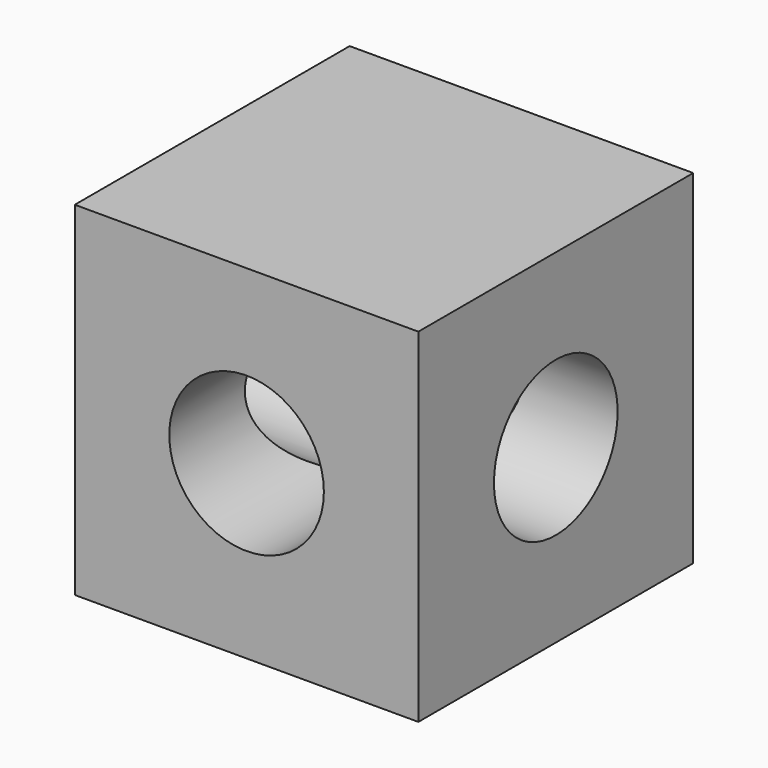
from build123d import *

# Parameters (mm, degrees)
SKETCH_W            = 20
SKETCH_H            = 20
PAD_DEPTH           = 10
HOLE_D              = 5
HOLE_DEPTH          = 25
HOLE_CBORE_D        = 9
HOLE_CBORE_DEPTH    = 20
HOLE001_D           = 5
HOLE001_DEPTH       = 25
HOLE001_CBORE_D     = 9
HOLE001_CBORE_DEPTH = 20


with BuildPart() as part:
    # Sketch → Pad (new body, symmetric)
    with BuildSketch(Plane.XY):
        Rectangle(SKETCH_W, SKETCH_H)
    extrude(amount=PAD_DEPTH, both=True)

    # Hole
    with Locations(Plane.XZ.offset(10)):
        with Locations((0, 0)):
            CounterBoreHole(HOLE_D / 2, HOLE_CBORE_D / 2, HOLE_CBORE_DEPTH, depth=HOLE_DEPTH)

    # Hole001
    with Locations(Plane(origin=(-10, 0, 0), x_dir=(0, -1, 0), z_dir=(-1, 0, 0))):
        with Locations((0, 0)):
            CounterBoreHole(HOLE001_D / 2, HOLE001_CBORE_D / 2, HOLE001_CBORE_DEPTH, depth=HOLE001_DEPTH)


with BuildPart() as part_1:
    # Body placement: moved
    add(part.part.moved(Location((50, 0, 500))))


solid = part_1.part
